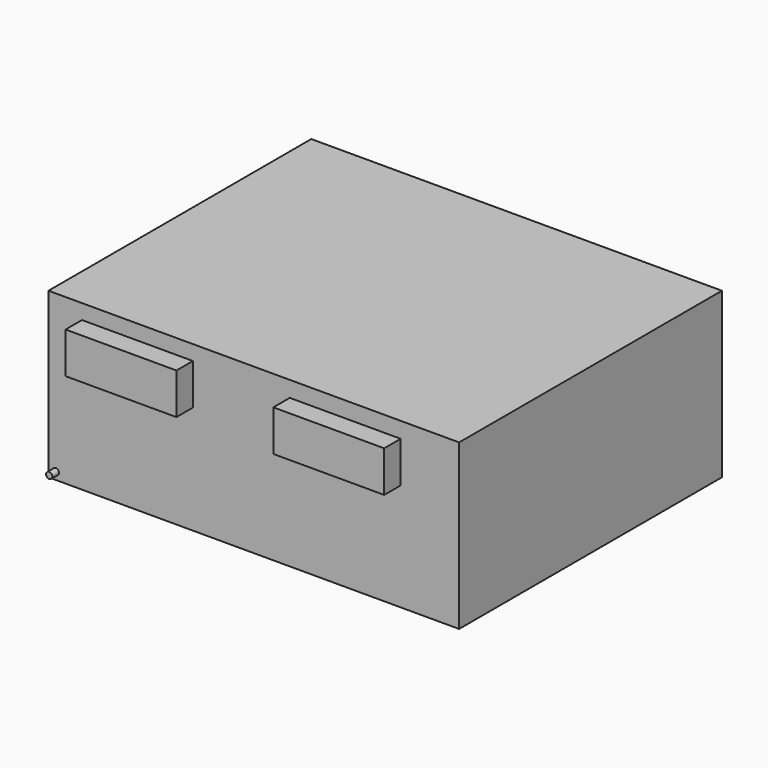
from build123d import *

# Parameters (mm, degrees)
F0_W     = 127
F0_H     = 101.6
F1_DEPTH = 50.8
F2_R     = 0.980775
F3_DEPTH = 2.54
F4_W     = 34.29
F4_H     = 12.7
F5_DEPTH = 6.35
F6_W     = 34.29
F6_H     = 12.7
F7_DEPTH = 6.35


with BuildPart() as f1:
    # F0 (on Top) → F1 (new body)
    with BuildSketch(Plane.XY):
        with Locations((4.771073, -7.535568)):
            Rectangle(F0_W, F0_H)
    extrude(amount=F1_DEPTH)

    # F2 (on face) → F3 (join)
    with BuildSketch(Plane.XZ.offset(58.335568)):
        with Locations((-56.460466, 2.286465)):
            Circle(F2_R)
    extrude(amount=F3_DEPTH)

    # F4 (on face) → F5 (join)
    with BuildSketch(Plane.XZ.offset(58.335568)):
        with Locations((-31.218295, 39.836608)):
            Rectangle(F4_W, F4_H)
        with Locations((-31.218295, 39.836608)):
            Rectangle(F4_W, F4_H)
    extrude(amount=F5_DEPTH)

    # F6 (on face) → F7 (join)
    with BuildSketch(Plane.XZ.offset(58.335568)):
        with Locations((33.035886, 39.54613)):
            Rectangle(F6_W, F6_H)
    extrude(amount=F7_DEPTH)


solid = f1.part
